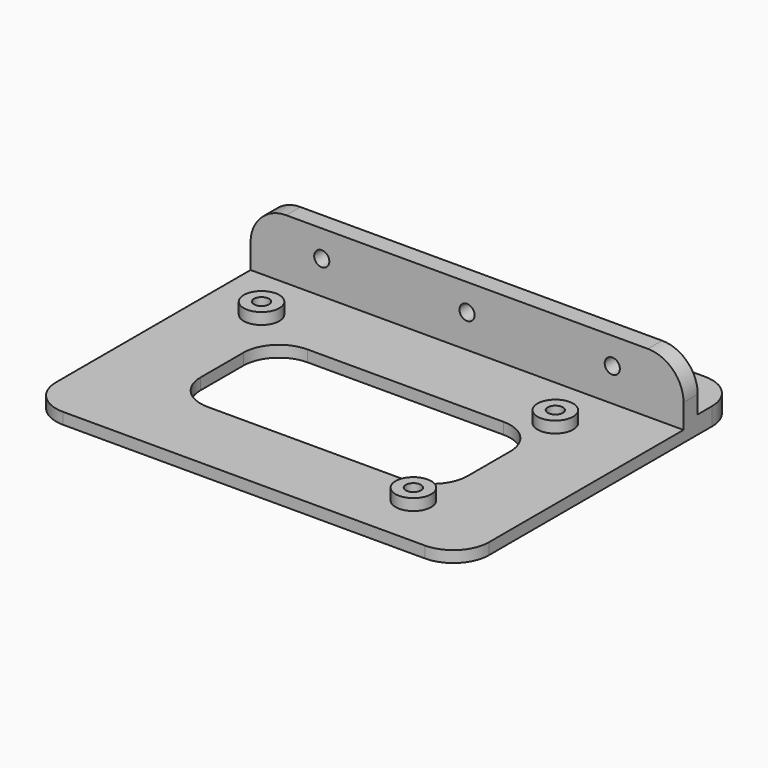
from build123d import *

# Parameters (mm, degrees)
F0_W     = 121.6
F0_H     = 78.3
F0_R     = 2.125
F1_DEPTH = 3.2
F2_R     = 5
F2_R_2   = 2.125
F3_DEPTH = 3.2
F5_DEPTH = 4
F6_W     = 121.6
F6_H     = 20
F6_R     = 2.125
F7_DEPTH = 5
F8_W     = 121.6
F8_H     = 15
F8_R     = 2.125
F9_DEPTH = 5
F10_R    = 10


with BuildPart() as f1:
    # F0 (on Top) → F1 (new body)
    with BuildSketch(Plane.XY):
        Rectangle(F0_W, F0_H)
        with Locations((35.5, -24.05)):
            Circle(F0_R, mode=Mode.SUBTRACT)
        with BuildLine():
            ThreePointArc((37.5, -7.5), (34.571068, -14.571068), (27.5, -17.5))
            Line((27.5, -17.5), (-27.5, -17.5))
            ThreePointArc((-27.5, -17.5), (-34.571068, -14.571068), (-37.5, -7.5))
            Line((-37.5, -7.5), (-37.5, 7.5))
            ThreePointArc((-37.5, 7.5), (-34.571068, 14.571068), (-27.5, 17.5))
            Line((-27.5, 17.5), (27.5, 17.5))
            ThreePointArc((27.5, 17.5), (34.571068, 14.571068), (37.5, 7.5))
            Line((37.5, 7.5), (37.5, -7.5))
        make_face(mode=Mode.SUBTRACT)
        with Locations((-45.72, 24.15)):
            Circle(F0_R, mode=Mode.SUBTRACT)
        with Locations((36.8, 24.15)):
            Circle(F0_R, mode=Mode.SUBTRACT)
    extrude(amount=F1_DEPTH)

    # F2 (on face) → F3 (join)
    with BuildSketch(Plane.XY.offset(3.2)):
        with Locations((-45.72, 24.15)):
            Circle(F2_R)
        with Locations((-45.72, 24.15)):
            Circle(F2_R_2, mode=Mode.SUBTRACT)
        with Locations((36.8, 24.15)):
            Circle(F2_R)
        with Locations((36.8, 24.15)):
            Circle(F2_R_2, mode=Mode.SUBTRACT)
        with Locations((35.5, -24.05)):
            Circle(F2_R)
        with Locations((35.5, -24.05)):
            Circle(F2_R_2, mode=Mode.SUBTRACT)
    extrude(amount=F3_DEPTH)

    # F4 (on face) → F5 (cut)
    with BuildSketch(Plane(origin=(0, 0, 0), x_dir=(1, 0, 0), z_dir=(0, 0, -1))):
        Polygon((-44.03125, -21.225), (-47.40875, -21.225), (-49.097499, -24.15), (-47.40875, -27.075), (-44.03125, -27.075), (-42.342501, -24.15), align=None)
        Polygon((38.48875, -21.225), (35.11125, -21.225), (33.422501, -24.15), (35.11125, -27.075), (38.48875, -27.075), (40.177499, -24.15), align=None)
        Polygon((33.81125, 21.125), (37.18875, 21.125), (38.877499, 24.05), (37.18875, 26.975), (33.81125, 26.975), (32.122501, 24.05), align=None)
    extrude(amount=-F5_DEPTH, mode=Mode.SUBTRACT)

    # F6 (on Top) → F7 (join)
    with BuildSketch(Plane.XY):
        with Locations((0, 49.15)):
            Rectangle(F6_W, F6_H)
        with Locations((-45.8, 51.65)):
            Circle(F6_R, mode=Mode.SUBTRACT)
        with Locations((0, 51.65)):
            Circle(F6_R, mode=Mode.SUBTRACT)
        with Locations((45.8, 51.65)):
            Circle(F6_R, mode=Mode.SUBTRACT)
    extrude(amount=F7_DEPTH)

    # F8 (on face) → F9 (join)
    with BuildSketch(Plane.XZ.offset(-39.15)):
        with Locations((0, 12.5)):
            Rectangle(F8_W, F8_H)
        with Locations((-40.8, 12.5)):
            Circle(F8_R, mode=Mode.SUBTRACT)
        with Locations((0, 12.5)):
            Circle(F8_R, mode=Mode.SUBTRACT)
        with Locations((40.8, 12.5)):
            Circle(F8_R, mode=Mode.SUBTRACT)
    extrude(amount=-F9_DEPTH)

    # F10
    f10_edges = [f1.edges().sort_by_distance(p)[0] for p in [
        (60.8, -39.15, 1.6),
        (-60.8, -39.15, 1.6),
        (-60.8, 59.15, 2.5),
        (-60.8, 41.65, 20),
        (60.8, 41.65, 20),
        (60.8, 59.15, 2.5),
    ]]
    fillet(f10_edges, radius=F10_R)


solid = f1.part
